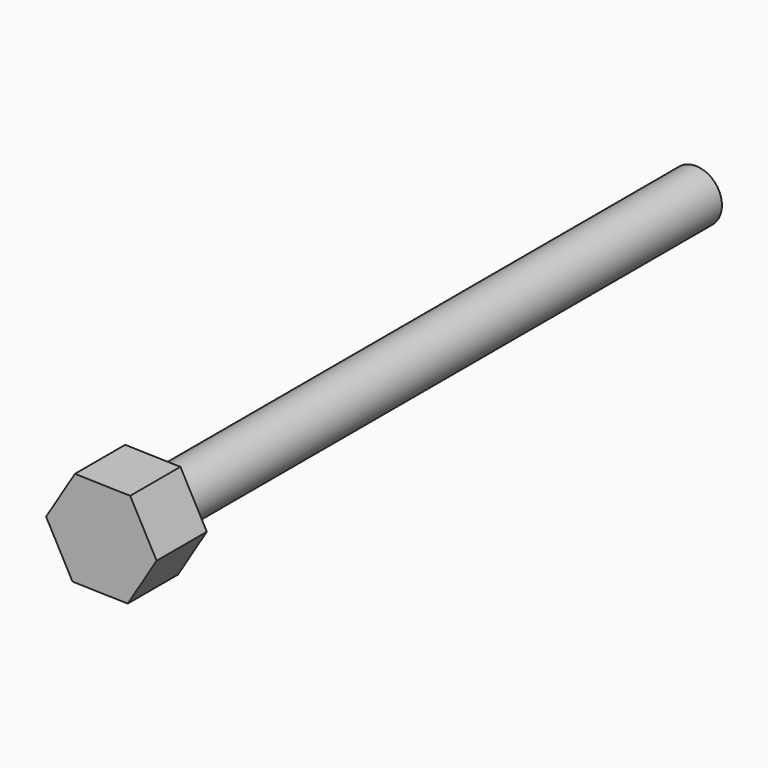
from build123d import *

# Parameters (mm, degrees)
F0_R     = 5
F1_DEPTH = 130
F2_R     = 5
F3_DEPTH = 12


with BuildPart() as f1:
    # F0 (on Front) → F1 (new body)
    with BuildSketch(Plane.XZ):
        Circle(F0_R)
    extrude(amount=F1_DEPTH)

    # F2 (on face) → F3 (join)
    with BuildSketch(Plane.XZ.offset(130)):
        Polygon((10.559816, -0.269859), (5.513612, 9.010139), (-5.046203, 9.279998), (-10.559816, 0.269859), (-5.513612, -9.010139), (5.046203, -9.279998), align=None)
        Circle(F2_R, mode=Mode.SUBTRACT)
        Circle(F2_R)
    extrude(amount=F3_DEPTH)


solid = f1.part
